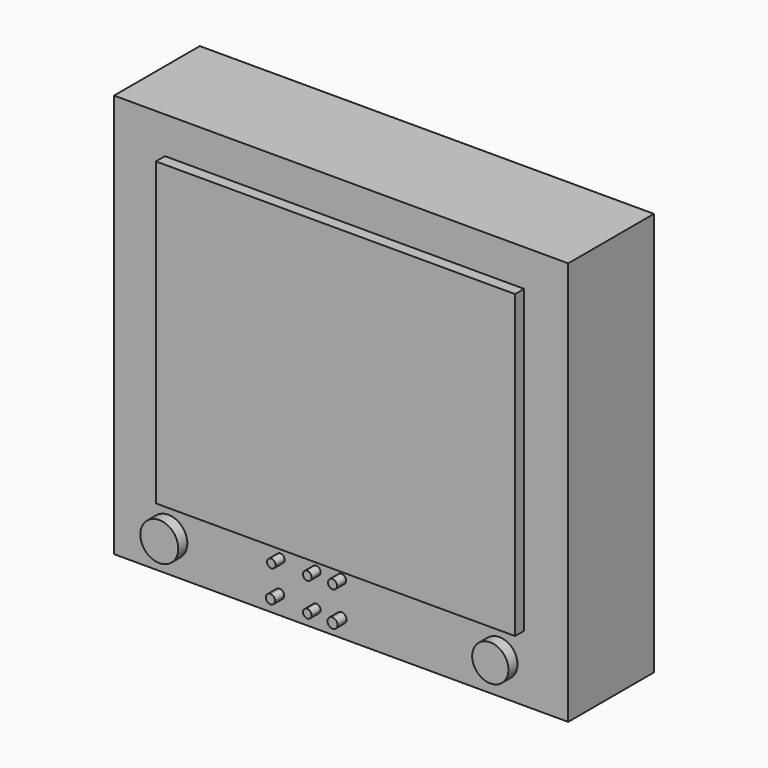
from build123d import *

# Parameters (mm, degrees)
F0_W     = 152.824863
F0_H     = 135.844316
F1_DEPTH = 36.068
F2_W     = 120.878413
F2_H     = 101.30763
F2_R     = 6.390326
F2_R_2   = 6.098495
F3_DEPTH = 3.81


with BuildPart() as f1:
    # F0 (on Front) → F1 (new body)
    with BuildSketch(Plane.XZ):
        with Locations((-0.143901, -7.482948)):
            Rectangle(F0_W, F0_H)
    extrude(amount=F1_DEPTH)

    # F2 (on face) → F3 (join)
    with BuildSketch(Plane.XZ.offset(36.068)):
        with Locations((1.007318, -2.59025)):
            Rectangle(F2_W, F2_H)
        with Locations((-58.280665, -64.180687)):
            Circle(F2_R)
        with Locations((53.100161, -63.892879)):
            Circle(F2_R_2)
        with BuildLine():
            ThreePointArc((-20.616989, -59.863074), (-19.574403, -59.455771), (-19.139081, -58.42457))
            ThreePointArc((-19.139081, -58.42457), (-21.581818, -57.393368), (-20.616989, -59.863074))
        make_face()
        with BuildLine():
            ThreePointArc((-19.316033, -69.073379), (-19.755277, -67.992353), (-20.824042, -67.524063))
            ThreePointArc((-20.824042, -67.524063), (-21.976553, -70.154405), (-19.316033, -69.073379))
        make_face()
        with BuildLine():
            ThreePointArc((-8.490268, -67.922159), (-9.507815, -70.378735), (-7.051239, -69.361188))
            ThreePointArc((-7.051239, -69.361188), (-7.472721, -68.34364), (-8.490268, -67.922159))
        make_face()
        with BuildLine():
            ThreePointArc((-7.022742, -58.136765), (-9.527966, -57.099067), (-8.490268, -59.604292))
            ThreePointArc((-8.490268, -59.604292), (-7.45257, -59.174463), (-7.022742, -58.136765))
        make_face()
        with BuildLine():
            ThreePointArc((0, -59.378668), (1.08167, -58.930626), (1.529712, -57.848956))
            ThreePointArc((1.529712, -57.848956), (-1.08167, -56.767287), (0, -59.378668))
        make_face()
        with BuildLine():
            ThreePointArc((1.684347, -69.361188), (1.191013, -68.170175), (0, -67.676841))
            ThreePointArc((0, -67.676841), (-1.191013, -70.552201), (1.684347, -69.361188))
        make_face()
    extrude(amount=F3_DEPTH)


solid = f1.part
